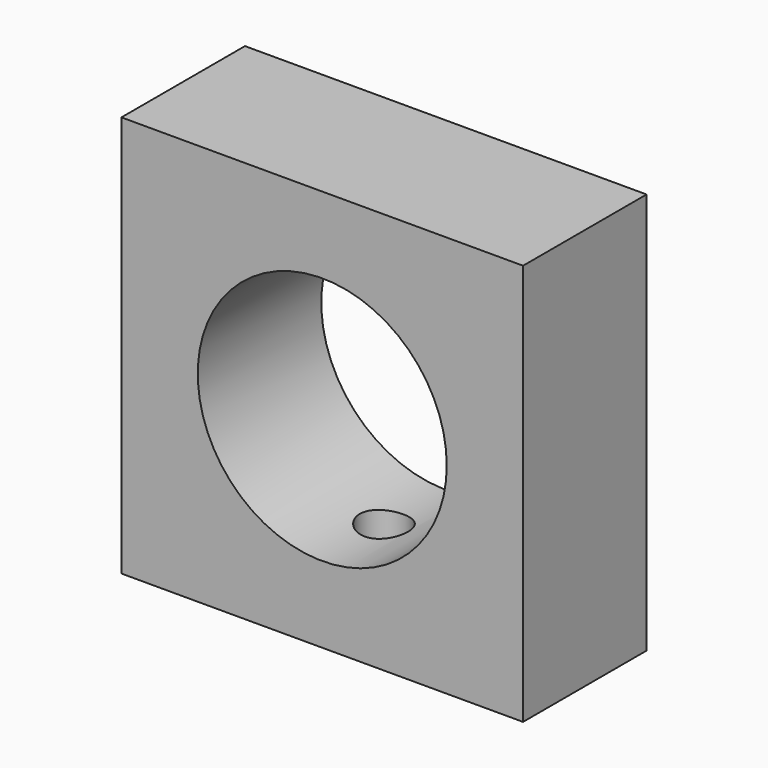
from build123d import *

# Parameters (mm, degrees)
F0_W     = 100
F0_H     = 100
F0_R     = 31
F1_DEPTH = 38.44
F2_R     = 6
F3_DEPTH = 19.5871874485


with BuildPart() as f1:
    # F0 (on Front) → F1 (new body)
    with BuildSketch(Plane.XZ):
        Rectangle(F0_W, F0_H)
        Circle(F0_R, mode=Mode.SUBTRACT)
    extrude(amount=F1_DEPTH)

    # F2 (on face) → F3 (cut, through all)
    with BuildSketch(Plane(origin=(0, 0, -50), x_dir=(1, 0, 0), z_dir=(0, 0, -1))):
        with Locations((0, 19.22)):
            Circle(F2_R)
    extrude(amount=-F3_DEPTH, mode=Mode.SUBTRACT)


solid = f1.part
